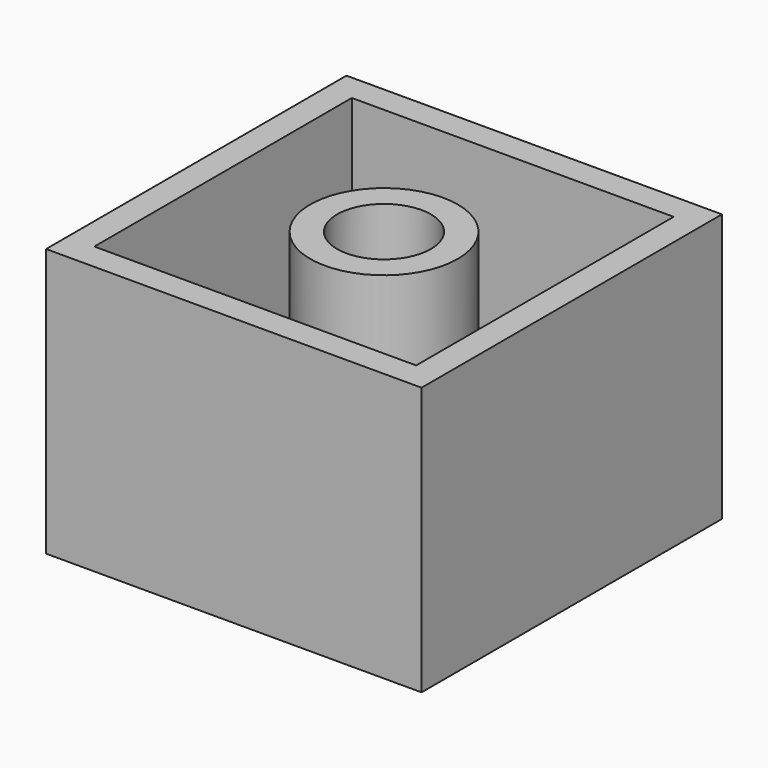
from build123d import *

# Parameters (mm, degrees)
F0_W     = 15.24
F0_H     = 15.24
F0_R     = 3.4925
F0_R_2   = 2.2225
F1_DEPTH = 1.27
F0_W_2   = 17.78
F0_H_2   = 17.78
F2_DEPTH = 12.7
F3_DEPTH = 12.7


with BuildPart() as f1:
    # F0 (on Top) → F1 (new body)
    with BuildSketch(Plane.XY):
        Rectangle(F0_W, F0_H)
        Circle(F0_R, mode=Mode.SUBTRACT)
        Circle(F0_R)
        Circle(F0_R_2, mode=Mode.SUBTRACT)
        Circle(F0_R_2)
    extrude(amount=F1_DEPTH)

    # F0 (on Top) → F2 (join)
    with BuildSketch(Plane.XY):
        Rectangle(F0_W_2, F0_H_2)
        Rectangle(F0_W, F0_H, mode=Mode.SUBTRACT)
    extrude(amount=F2_DEPTH)

    # F0 (on Top) → F3 (join)
    with BuildSketch(Plane.XY):
        Circle(F0_R)
        Circle(F0_R_2, mode=Mode.SUBTRACT)
    extrude(amount=F3_DEPTH)


solid = f1.part
